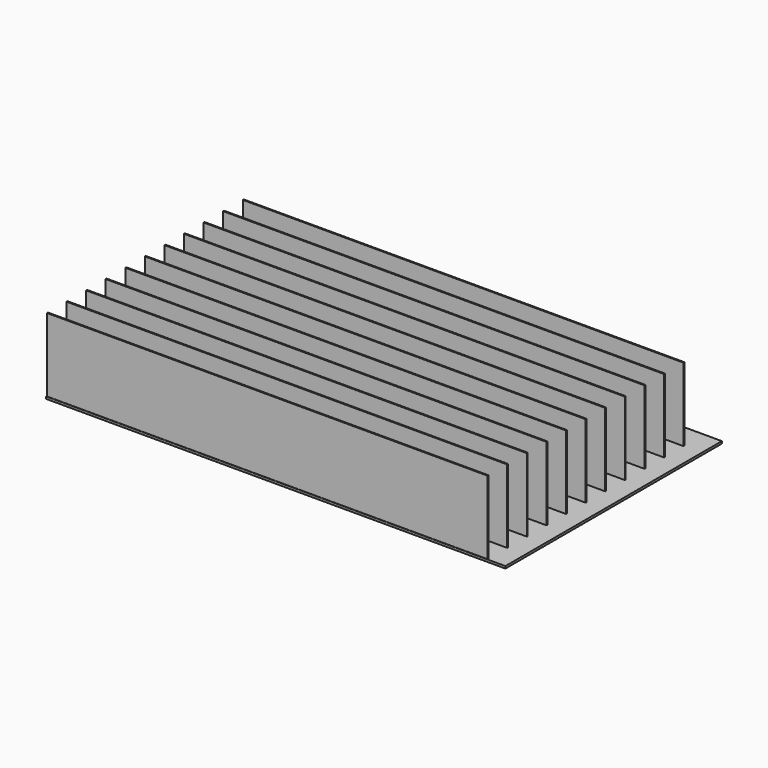
from build123d import *

# Parameters (mm, degrees)
F0_W     = 1.5875
F0_H     = 107.95
F1_DEPTH = 314.325
F2_W     = 655.1622450352
F2_H     = 386.0229451675
F3_DEPTH = 3.175


with BuildPart() as f1:
    # F0 (on Right) → F1 (new body, symmetric)
    with BuildSketch(Plane.YZ):
        with Locations((348.45625, 53.975)):
            Rectangle(F0_W, F0_H)
    extrude(amount=F1_DEPTH, both=True)



with BuildPart() as f1b:
    # F0 (on Right) → F1, piece 2 (new body, symmetric)
    with BuildSketch(Plane.YZ):
        with Locations((313.53125, 53.975)):
            Rectangle(F0_W, F0_H)
    extrude(amount=F1_DEPTH, both=True)


with BuildPart() as f1c:
    # F0 (on Right) → F1, piece 3 (new body, symmetric)
    with BuildSketch(Plane.YZ):
        with Locations((278.60625, 53.975)):
            Rectangle(F0_W, F0_H)
    extrude(amount=F1_DEPTH, both=True)


with BuildPart() as f1d:
    # F0 (on Right) → F1, piece 4 (new body, symmetric)
    with BuildSketch(Plane.YZ):
        with Locations((243.68125, 53.975)):
            Rectangle(F0_W, F0_H)
    extrude(amount=F1_DEPTH, both=True)


with BuildPart() as f1e:
    # F0 (on Right) → F1, piece 5 (new body, symmetric)
    with BuildSketch(Plane.YZ):
        with Locations((208.75625, 53.975)):
            Rectangle(F0_W, F0_H)
    extrude(amount=F1_DEPTH, both=True)


with BuildPart() as f1f:
    # F0 (on Right) → F1, piece 6 (new body, symmetric)
    with BuildSketch(Plane.YZ):
        with Locations((173.83125, 53.975)):
            Rectangle(F0_W, F0_H)
    extrude(amount=F1_DEPTH, both=True)


with BuildPart() as f1g:
    # F0 (on Right) → F1, piece 7 (new body, symmetric)
    with BuildSketch(Plane.YZ):
        with Locations((138.90625, 53.975)):
            Rectangle(F0_W, F0_H)
    extrude(amount=F1_DEPTH, both=True)


with BuildPart() as f1h:
    # F0 (on Right) → F1, piece 8 (new body, symmetric)
    with BuildSketch(Plane.YZ):
        with Locations((103.98125, 53.975)):
            Rectangle(F0_W, F0_H)
    extrude(amount=F1_DEPTH, both=True)


with BuildPart() as f1i:
    # F0 (on Right) → F1, piece 9 (new body, symmetric)
    with BuildSketch(Plane.YZ):
        with Locations((69.05625, 53.975)):
            Rectangle(F0_W, F0_H)
    extrude(amount=F1_DEPTH, both=True)


with BuildPart() as f1j:
    # F0 (on Right) → F1, piece 10 (new body, symmetric)
    with BuildSketch(Plane.YZ):
        with Locations((34.13125, 53.975)):
            Rectangle(F0_W, F0_H)
    extrude(amount=F1_DEPTH, both=True)


with BuildPart() as f1k:
    # F0 (on Right) → F1, piece 11 (new body, symmetric)
    with BuildSketch(Plane.YZ):
        with Locations((-0.79375, 53.975)):
            Rectangle(F0_W, F0_H)
    extrude(amount=F1_DEPTH, both=True)


with BuildPart() as f1_1:
    add(f1.part)

    add(f1b.part)  # F3 merges F1b

    add(f1c.part)  # F3 merges F1c

    add(f1d.part)  # F3 merges F1d

    add(f1e.part)  # F3 merges F1e

    add(f1f.part)  # F3 merges F1f

    add(f1g.part)  # F3 merges F1g

    add(f1h.part)  # F3 merges F1h

    add(f1i.part)  # F3 merges F1i

    add(f1j.part)  # F3 merges F1j

    add(f1k.part)  # F3 merges F1k
    # F2 (on Top) → F3 (join)
    with BuildSketch(Plane.XY):
        with Locations((12.5250071287, 190.857162117)):
            Rectangle(F2_W, F2_H)
    extrude(amount=F3_DEPTH)


solid = f1_1.part
